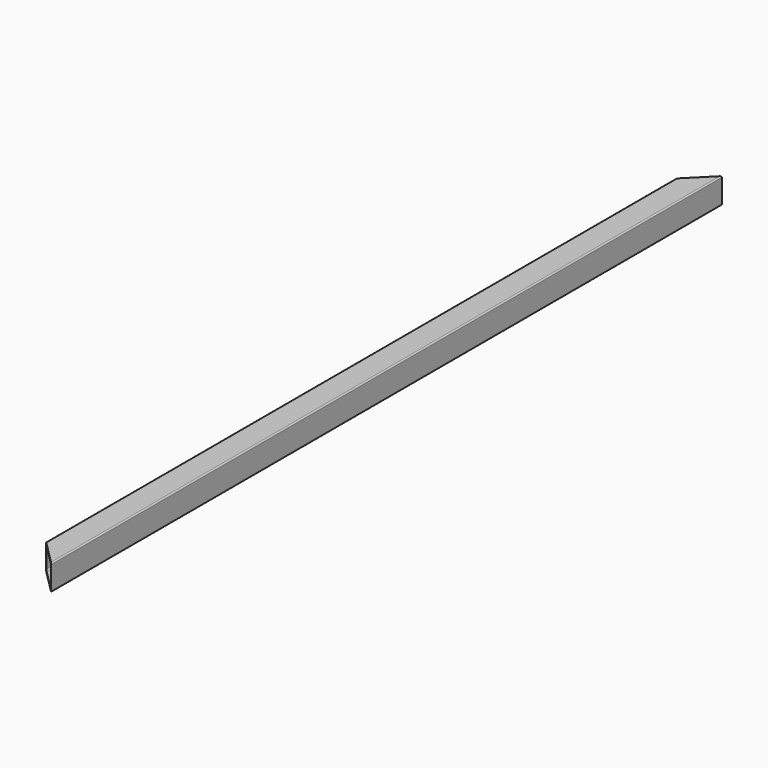
from build123d import *

# Parameters (mm, degrees)
F1_DEPTH = 650
F3_DEPTH = 20


with BuildPart() as f1:
    # F0 (on Front) → F1 (new body)
    with BuildSketch(Plane.XZ):
        with BuildLine():
            Line((9, 10), (-9, 10))
            ThreePointArc((-9, 10), (-9.707107, 9.707107), (-10, 9))
            Line((-10, 9), (-10, -9))
            ThreePointArc((-10, -9), (-9.707107, -9.707107), (-9, -10))
            Line((-9, -10), (9, -10))
            ThreePointArc((9, -10), (9.707107, -9.707107), (10, -9))
            Line((10, -9), (10, 9))
            ThreePointArc((10, 9), (9.707107, 9.707107), (9, 10))
        make_face()
        with BuildLine():
            ThreePointArc((-8.75, 7.75), (-8.457107, 8.457107), (-7.75, 8.75))
            Line((-7.75, 8.75), (7.75, 8.75))
            ThreePointArc((7.75, 8.75), (8.457107, 8.457107), (8.75, 7.75))
            Line((8.75, 7.75), (8.75, -7.75))
            ThreePointArc((8.75, -7.75), (8.457107, -8.457107), (7.75, -8.75))
            Line((7.75, -8.75), (-7.75, -8.75))
            ThreePointArc((-7.75, -8.75), (-8.457107, -8.457107), (-8.75, -7.75))
            Line((-8.75, -7.75), (-8.75, 7.75))
        make_face(mode=Mode.SUBTRACT)
    extrude(amount=F1_DEPTH)

    # F2 (on face) → F3 (cut)
    with BuildSketch(Plane.XY.offset(10)):
        Polygon((-9, -650), (9, -650), (9, -649), (-9, -631), align=None)
        Polygon((-10, -650), (-9, -650), (-9, -631), (-10, -630), align=None)
        Polygon((9, -649), (9, -650), (10, -650), align=None)
        Polygon((9, 0), (9, -1), (10, 0), align=None)
        Polygon((-9, -19), (9, -1), (9, 0), (-9, 0), align=None)
        Polygon((-10, -20), (-9, -19), (-9, 0), (-10, 0), align=None)
    extrude(amount=-F3_DEPTH, mode=Mode.SUBTRACT)


solid = f1.part
